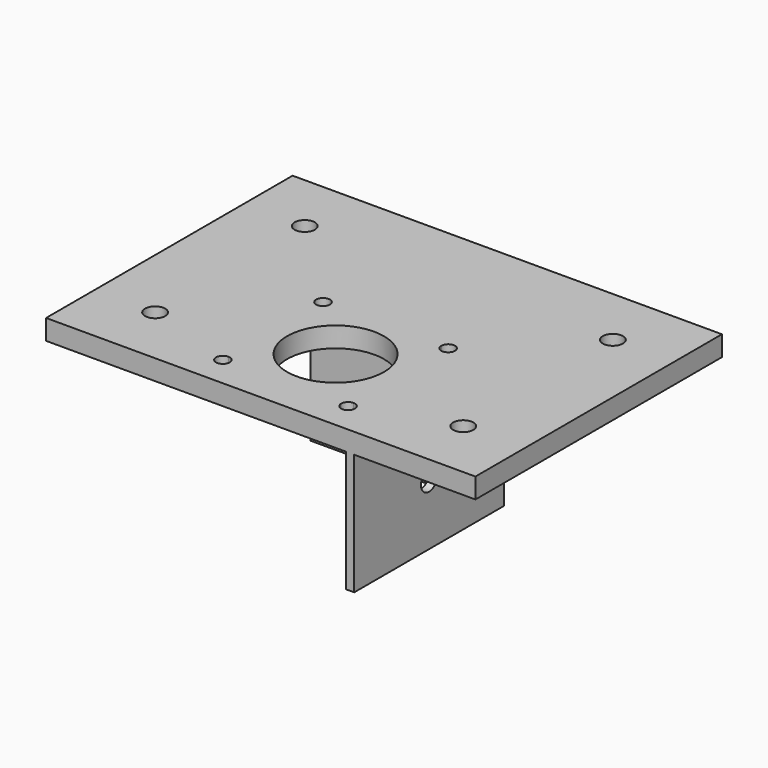
from build123d import *

# Parameters (mm, degrees)
F0_W           = 42.3
F0_H           = 42.3
F0_R           = 12
F0_R_2         = 2.5
F0_H_2         = 2
F1_DEPTH       = 5
F2_DEPTH       = 30
F5_D           = 5
F5_DEPTH       = 12.7
F5_TIP         = 1.5021515476
F5_ON_F4_D     = 5
F5_ON_F4_DEPTH = 12.7
F5_ON_F4_TIP   = 1.5021515476


with BuildPart() as f1:
    # F0 (on Top) → F1 (new body)
    with BuildSketch(Plane.XY):
        Polygon((-21.15, 21.15), (21.15, 21.15), (23.15, 21.15), (23.15, 23.15), (-23.15, 23.15), (-23.15, 21.15), align=None)
        Rectangle(F0_W, F0_H)
        with BuildLine():
            ThreePointArc((-15.5, 13.8), (-16.702081528, 16.702081528), (-13.8, 15.5))
            Line((-13.8, 15.5), (13.8, 15.5))
            ThreePointArc((13.8, 15.5), (15.5, 17.2), (17.2, 15.5))
            ThreePointArc((17.2, 15.5), (16.702081528, 14.297918472), (15.5, 13.8))
            Line((15.5, 13.8), (15.5, -13.8))
            ThreePointArc((15.5, -13.8), (16.702081528, -14.297918472), (17.2, -15.5))
            ThreePointArc((17.2, -15.5), (15.5, -17.2), (13.8, -15.5))
            Line((13.8, -15.5), (-13.8, -15.5))
            ThreePointArc((-13.8, -15.5), (-16.702081528, -16.702081528), (-15.5, -13.8))
            Line((-15.5, -13.8), (-15.5, 13.8))
        make_face(mode=Mode.SUBTRACT)
        with BuildLine():
            Line((13.8, 15.5), (-13.8, 15.5))
            ThreePointArc((-13.8, 15.5), (-14.297918472, 14.297918472), (-15.5, 13.8))
            Line((-15.5, 13.8), (-15.5, -13.8))
            ThreePointArc((-15.5, -13.8), (-14.297918472, -14.297918472), (-13.8, -15.5))
            Line((-13.8, -15.5), (13.8, -15.5))
            ThreePointArc((13.8, -15.5), (14.297918472, -14.297918472), (15.5, -13.8))
            Line((15.5, -13.8), (15.5, 13.8))
            ThreePointArc((15.5, 13.8), (14.297918472, 14.297918472), (13.8, 15.5))
        make_face()
        Circle(F0_R, mode=Mode.SUBTRACT)
        Polygon((23.15, 23.15), (23.15, 21.15), (23.15, -23.15), (53.15, -23.15), (53.15, 53.15), (-53.15, 53.15), (-53.15, -23.15), (-23.15, -23.15), (-23.15, 21.15), (-23.15, 23.15), align=None)
        with Locations((-38.15, -8.15)):
            Circle(F0_R_2, mode=Mode.SUBTRACT)
        with Locations((38.15, -8.15)):
            Circle(F0_R_2, mode=Mode.SUBTRACT)
        with Locations((-38.15, 38.15)):
            Circle(F0_R_2, mode=Mode.SUBTRACT)
        with Locations((38.15, 38.15)):
            Circle(F0_R_2, mode=Mode.SUBTRACT)
        Polygon((-21.15, -21.15), (-21.15, 21.15), (-23.15, 21.15), (-23.15, -23.15), (-21.15, -23.15), align=None)
        Polygon((23.15, 21.15), (21.15, 21.15), (21.15, -21.15), (21.15, -23.15), (23.15, -23.15), align=None)
        with Locations((0, -22.15)):
            Rectangle(F0_W, F0_H_2)
    extrude(amount=F1_DEPTH)

    # F0 (on Top) → F2 (join)
    with BuildSketch(Plane.XY):
        Polygon((-21.15, 21.15), (21.15, 21.15), (23.15, 21.15), (23.15, 23.15), (-23.15, 23.15), (-23.15, 21.15), align=None)
        Polygon((23.15, 21.15), (21.15, 21.15), (21.15, -21.15), (21.15, -23.15), (23.15, -23.15), align=None)
    extrude(amount=-F2_DEPTH)

    # F5
    with Locations(Plane.XZ.offset(-21.15)):
        with Locations((0, -15)):
            Hole(F5_D / 2, depth=F5_DEPTH)
            with Locations((0, 0, -(F5_DEPTH + F5_TIP / 2))):  # 118° drill point
                Cone(0, F5_D / 2, F5_TIP, mode=Mode.SUBTRACT)

    # F5 on F4
    with Locations(Plane(origin=(21.15, 0, 0), x_dir=(0, -1, 0), z_dir=(-1, 0, 0))):
        with Locations((0, -15)):
            Hole(F5_ON_F4_D / 2, depth=F5_ON_F4_DEPTH)
            with Locations((0, 0, -(F5_ON_F4_DEPTH + F5_ON_F4_TIP / 2))):  # 118° drill point
                Cone(0, F5_ON_F4_D / 2, F5_ON_F4_TIP, mode=Mode.SUBTRACT)


solid = f1.part
